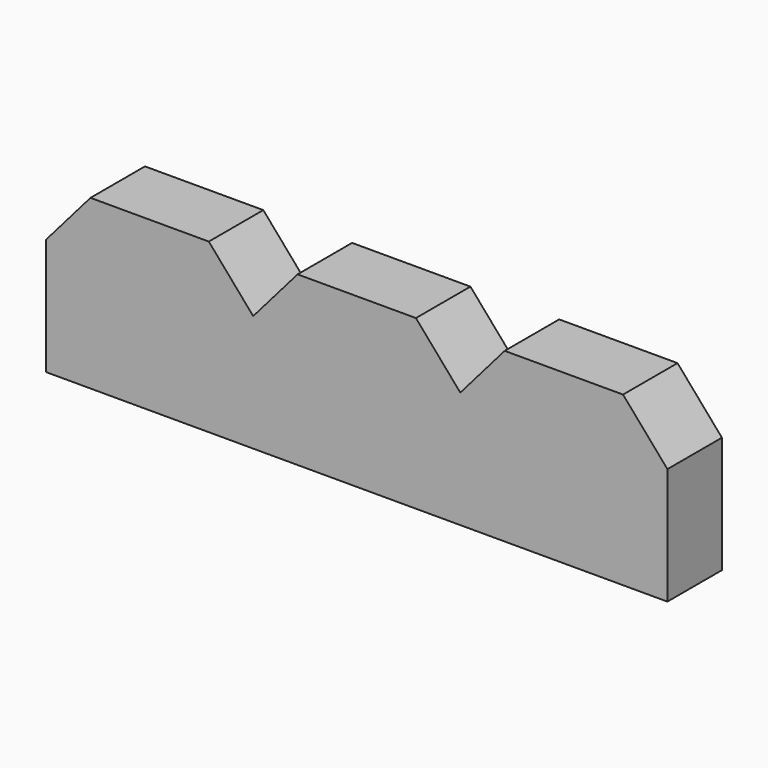
from build123d import *

# Parameters (mm, degrees)
F1_DEPTH = 25


with BuildPart() as f1:
    # F0 (on Front) → F1 (new body)
    with BuildSketch(Plane.XZ):
        Polygon((-97.923082, 42.802202), (-97.923082, 0), (-66.604404, 0), (-21.923082, 0), (-21.923082, 42.802202), (-38.208792, 61.593413), (-59.923082, 61.593413), (-81.637373, 61.593413), align=None)
        Polygon((-21.923082, 42.802202), (-21.923082, 0), (9.395596, 0), (54.076918, 0), (54.076918, 42.802202), (37.791208, 61.593413), (16.076918, 61.593413), (-5.637373, 61.593413), align=None)
        Polygon((54.076918, 42.802202), (54.076918, 0), (130.076918, 0), (130.076918, 42.802202), (113.791208, 61.593413), (92.076918, 61.593413), (70.362627, 61.593413), align=None)
    extrude(amount=F1_DEPTH)


solid = f1.part
